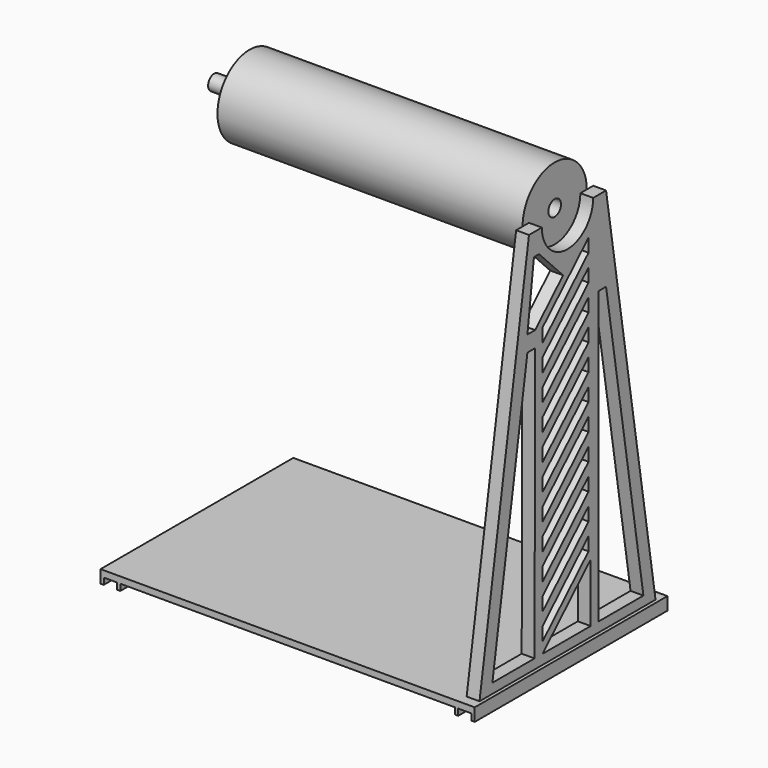
from build123d import *

# Parameters (mm, degrees)
F0_R          = 2.375
F1_DEPTH      = 16
F2_R          = 12.5
F2_R_2        = 2.45
F3_DEPTH      = 90
F3_DEPTH_BACK = 5
F5_DEPTH      = 4
F7_DEPTH      = 4
F9_DEPTH      = 25
F10_W         = 104.2
F10_H         = 75
F10_W_2       = 4.15
F10_W_3       = 1
F10_W_4       = 4
F10_H_2       = 68.5138990056
F11_DEPTH     = 2
F12_DEPTH     = 4


with BuildPart() as f1:
    # F0 (on Right) → F1 (new body)
    with BuildSketch(Plane.YZ):
        Circle(F0_R)
    extrude(amount=F1_DEPTH)


with BuildPart() as f3:
    # F2 (on face) → F3 (new body, two sides)
    with BuildSketch(Plane.YZ.offset(16)) as f3_sk:
        Circle(F2_R)
        Circle(F2_R_2, mode=Mode.SUBTRACT)
    extrude(amount=F3_DEPTH)
    extrude(f3_sk.sketch, amount=-F3_DEPTH_BACK)


with BuildPart() as f5:
    # F4 (on face) → F5 (new body)
    with BuildSketch(Plane.YZ.offset(106)):
        with BuildLine():
            Line((15, 0), (12.5, 0))
            ThreePointArc((12.5, 0), (0, -12.5), (-12.5, 0))
            Line((-12.5, 0), (-15, 0))
            ThreePointArc((-15, 0), (0, -15), (15, 0))
        make_face()
        with BuildLine():
            Line((12.5, 0), (10, 0))
            ThreePointArc((10, 0), (0, -10), (-10, 0))
            Line((-10, 0), (-12.5, 0))
            ThreePointArc((-12.5, 0), (0, -12.5), (12.5, 0))
        make_face()
    extrude(amount=F5_DEPTH)

    # F6 (on face) → F7 (join)
    with BuildSketch(Plane.YZ.offset(110)):
        with BuildLine():
            Line((34.2569495028, -120), (15, 0))
            ThreePointArc((15, 0), (0, -15), (-15, 0))
            Line((-15, 0), (-34.2569495028, -120))
            Line((-34.2569495028, -120), (34.2569495028, -120))
        make_face()
        with BuildLine():
            Line((15, 0), (12.5, 0))
            ThreePointArc((12.5, 0), (0, -12.5), (-12.5, 0))
            Line((-12.5, 0), (-15, 0))
            ThreePointArc((-15, 0), (0, -15), (15, 0))
        make_face()
        with BuildLine():
            Line((12.5, 0), (10, 0))
            ThreePointArc((10, 0), (0, -10), (-10, 0))
            Line((-10, 0), (-12.5, 0))
            ThreePointArc((-12.5, 0), (0, -12.5), (12.5, 0))
        make_face()
    extrude(amount=-F7_DEPTH)

    # F8 (on face) → F9 (cut)
    with BuildSketch(Plane.YZ.offset(110)):
        Polygon((8.1820506343, -10.1123183083), (-9.7382985293, -27.5439299909), (-9.7382985293, -31.7291163014), (8.1820506343, -14.2975046188), align=None)
        Polygon((8.1820506343, -18.2975046188), (-9.7382985293, -35.7291163014), (-9.7382985293, -39.9143026119), (8.1820506343, -22.4826909294), align=None)
        Polygon((8.1820506343, -26.4826909294), (-9.7382985293, -43.9143026119), (-9.7382985293, -48.0994889225), (8.1820506343, -30.6678772399), align=None)
        Polygon((8.1820506343, -34.6678772399), (-9.7382985293, -52.0994889225), (-9.7382985293, -56.284675233), (8.1820506343, -38.8530635505), align=None)
        Polygon((8.1820506343, -42.8530635505), (-9.7382985293, -60.284675233), (-9.7382985293, -64.4698615436), (8.1820506343, -47.038249861), align=None)
        Polygon((8.1820506343, -51.038249861), (-9.7382985293, -68.4698615436), (-9.7382985293, -72.6550478541), (8.1820506343, -55.2234361716), align=None)
        Polygon((8.1820506343, -59.2234361716), (-9.7382985293, -76.6550478541), (-9.7382985293, -80.8402341647), (8.1820506343, -63.4086224821), align=None)
        Polygon((8.1820506343, -67.4086224821), (-9.7382985293, -84.8402341647), (-9.7382985293, -89.0254204752), (8.1820506343, -71.5938087926), align=None)
        Polygon((8.1820506343, -75.5938087926), (-9.7382985293, -93.0254204752), (-9.7382985293, -97.2106067857), (8.1820506343, -79.7789951032), align=None)
        Polygon((8.1820506343, -83.7789951032), (-9.7382985293, -101.2106067857), (-9.7382985293, -105.3957930963), (8.1820506343, -87.9641814137), align=None)
        Polygon((8.1820506343, -91.9641814137), (-9.7382985293, -109.3957930963), (-9.7382985293, -113.5809794068), (8.1820506343, -96.1493677243), align=None)
        Polygon((-13.0714615807, -6.8447575172), (-15.6052940354, -27.0409584045), (-12.6052940354, -27.0409584045), (-1.7229356509, -16.4553920288), (-11.0714615807, -6.8447575172), align=None)
        Polygon((-29.240867123, -116.9576048851), (-12.8319226205, -116.9576048851), (-12.6052940354, -31.9873051873), (-15.6052940354, -31.9873051873), align=None)
        Polygon((12, -26.3765715063), (12, -98.7303515781), (12, -116.9576048851), (29.5359532141, -116.9576048851), (15, -26.3765715063), align=None)
        Polygon((9, -98.7303515781), (-9.7382985293, -116.9576048851), (9, -116.9576048851), align=None)
    extrude(amount=-F9_DEPTH, mode=Mode.SUBTRACT)


with BuildPart() as f11:
    # F10 (on face) → F11 (new body)
    with BuildSketch(Plane(origin=(0, 0, -120), x_dir=(1, 0, 0), z_dir=(0, 0, -1))):
        with Locations((52.825, -0.0430504972)):
            Rectangle(F10_W, F10_H)
        with Locations((-2.35, -0.0430504972)):
            Rectangle(F10_W_2, F10_H)
        with Locations((-4.925, -0.0430504972)):
            Rectangle(F10_W_3, F10_H)
        with Locations((0.225, -0.0430504972)):
            Rectangle(F10_W_3, F10_H)
        with Locations((110.575, -0.0430504972)):
            Rectangle(F10_W_3, F10_H)
        with Locations((105.425, -0.0430504972)):
            Rectangle(F10_W_3, F10_H)
        with Locations((108, -0.0430504972)):
            Rectangle(F10_W_2, F10_H)
        with Locations((108, 0)):
            Rectangle(F10_W_4, F10_H_2, mode=Mode.SUBTRACT)
        with Locations((108, 0)):
            Rectangle(F10_W_4, F10_H_2)
    extrude(amount=F11_DEPTH)

    # F10 (on face) → F12 (join)
    with BuildSketch(Plane(origin=(0, 0, -120), x_dir=(1, 0, 0), z_dir=(0, 0, -1))):
        with Locations((110.575, -0.0430504972)):
            Rectangle(F10_W_3, F10_H)
        with Locations((105.425, -0.0430504972)):
            Rectangle(F10_W_3, F10_H)
        with Locations((-4.925, -0.0430504972)):
            Rectangle(F10_W_3, F10_H)
        with Locations((0.225, -0.0430504972)):
            Rectangle(F10_W_3, F10_H)
    extrude(amount=F12_DEPTH)


solid = Compound([f1.part, f3.part, f5.part, f11.part])
